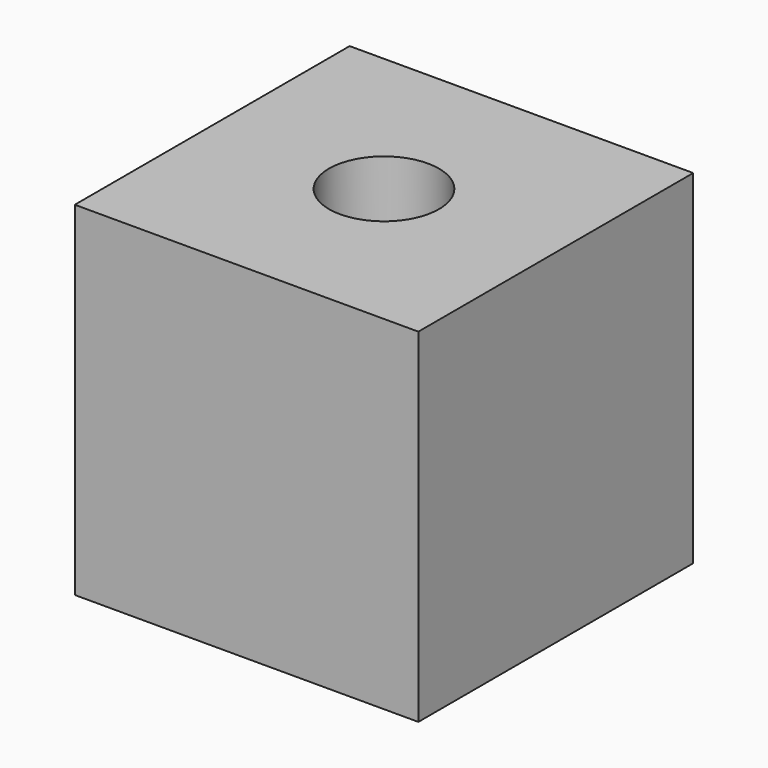
from build123d import *

# Parameters (mm, degrees)
F0_W     = 100
F0_H     = 100
F1_DEPTH = 100
F2_D     = 32
F3_D     = 50
F3_DEPTH = 50
F3_TIP   = 15.0215154757


with BuildPart() as f1:
    # F0 (on Top) → F1 (new body)
    with BuildSketch(Plane.XY):
        Rectangle(F0_W, F0_H)
    extrude(amount=F1_DEPTH)

    # F2 (through all)
    with Locations(Plane(origin=(0, 0, 0), x_dir=(1, 0, 0), z_dir=(0, 0, -1))):
        with Locations((0, 0)):
            Hole(F2_D / 2)

    # F3
    with Locations(Plane(origin=(0, 0, 0), x_dir=(1, 0, 0), z_dir=(0, 0, -1))):
        with Locations((0, 0)):
            Hole(F3_D / 2, depth=F3_DEPTH)
            with Locations((0, 0, -(F3_DEPTH + F3_TIP / 2))):  # 118° drill point
                Cone(0, F3_D / 2, F3_TIP, mode=Mode.SUBTRACT)


solid = f1.part
